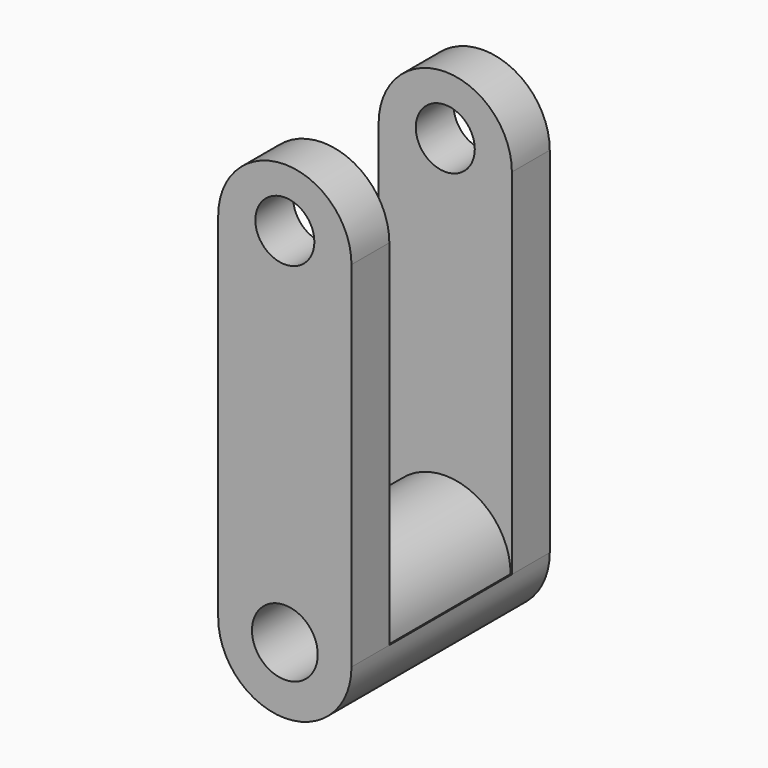
from build123d import *

# Parameters (mm, degrees)
F1_DEPTH = 101.6
F2_W     = 62.789462
F2_H     = 290.428608
F3_DEPTH = 76.2
F4_R     = 26.772602
F5_DEPTH = 101.6
F6_R     = 12.094446
F6_R_2   = 13.485849
F7_DEPTH = 101.6


with BuildPart() as f1:
    # F0 (on Front) → F1 (new body)
    with BuildSketch(Plane.XZ):
        with BuildLine():
            Line((27.304832, -72.607152), (27.304832, 72.607152))
            ThreePointArc((27.304832, 72.607152), (0, 99.911984), (-27.304832, 72.607152))
            Line((-27.304832, 72.607152), (-27.304832, -72.607152))
            ThreePointArc((-27.304832, -72.607152), (0, -99.911984), (27.304832, -72.607152))
        make_face()
    extrude(amount=-F1_DEPTH)

    # F2 (on face) → F3 (cut)
    with BuildSketch(Plane.YZ.offset(27.304832)):
        with Locations((50.8, 72.607152)):
            Rectangle(F2_W, F2_H)
    extrude(amount=-F3_DEPTH, mode=Mode.SUBTRACT)

    # F4 (on Front) → F5 (join)
    with BuildSketch(Plane.XZ):
        with Locations((0, -72.568707)):
            Circle(F4_R)
    extrude(amount=-F5_DEPTH)

    # F6 (on face) → F7 (cut)
    with BuildSketch(Plane.XZ):
        with Locations((0, 75.886309)):
            Circle(F6_R)
        with Locations((0, -72.607152)):
            Circle(F6_R_2)
    extrude(amount=-F7_DEPTH, mode=Mode.SUBTRACT)


solid = f1.part
